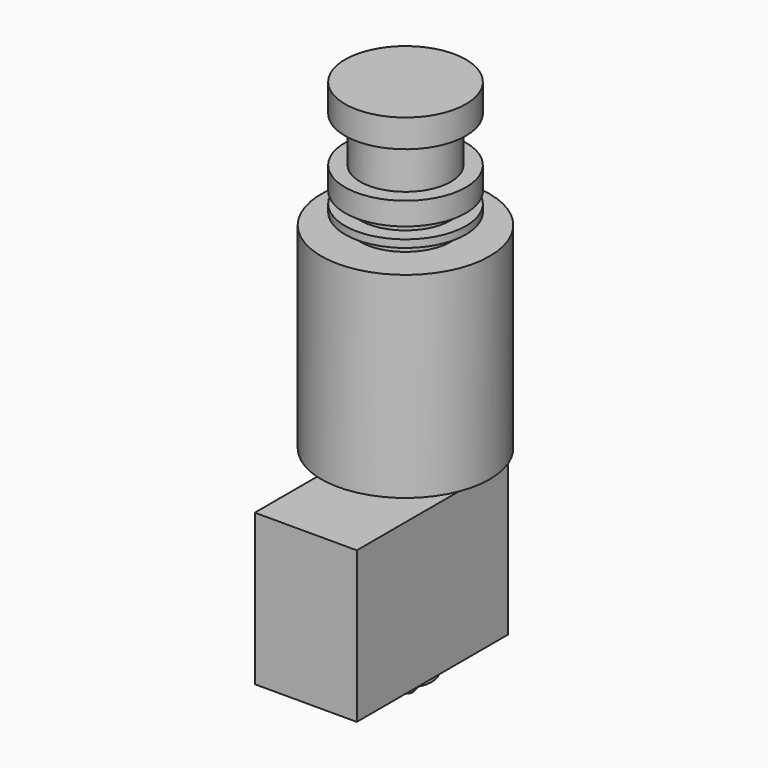
from build123d import *

# Parameters (mm, degrees)
F2_R     = 2.5
F3_DEPTH = 3
F4_W     = 13.5
F4_H     = 25
F5_DEPTH = 20


with BuildPart() as f1:
    # F0 (on Front) → F1 (revolve)
    with BuildSketch(Plane.XZ):
        Polygon((0, 42.7), (0, 0), (11.15, 0), (11.15, 26), (6, 26), (6, 27.5), (8, 27.5), (8, 28.5), (6, 28.5), (6, 30), (8, 30), (8, 33), (6, 33), (6, 39), (8, 39), (8, 42.7), align=None)
    revolve(axis=Axis((0, 0, 21.35), (0, 0, 1)))

    # F2 (on face) → F3 (join)
    with BuildSketch(Plane(origin=(0, 0, 0), x_dir=(1, 0, 0), z_dir=(0, 0, -1))):
        Circle(F2_R)
    extrude(amount=F3_DEPTH)

    # F4 (on face) → F5 (join)
    with BuildSketch(Plane(origin=(0, 0, -3), x_dir=(1, 0, 0), z_dir=(0, 0, -1))):
        with Locations((0, 4)):
            Rectangle(F4_W, F4_H)
    extrude(amount=F5_DEPTH)

    # F6 (on Front) → F7 (revolve)
    with BuildSketch(Plane.XZ):
        Polygon((0, -28.1), (0, -23), (-2.5, -23), (-2.5, -24), (-3.5, -24), (-3.5, -26.1), (-2.5, -26.1), (-1, -28.1), align=None)
    revolve(axis=Axis((0, 0, -25.55), (0, 0, -1)))


solid = f1.part
